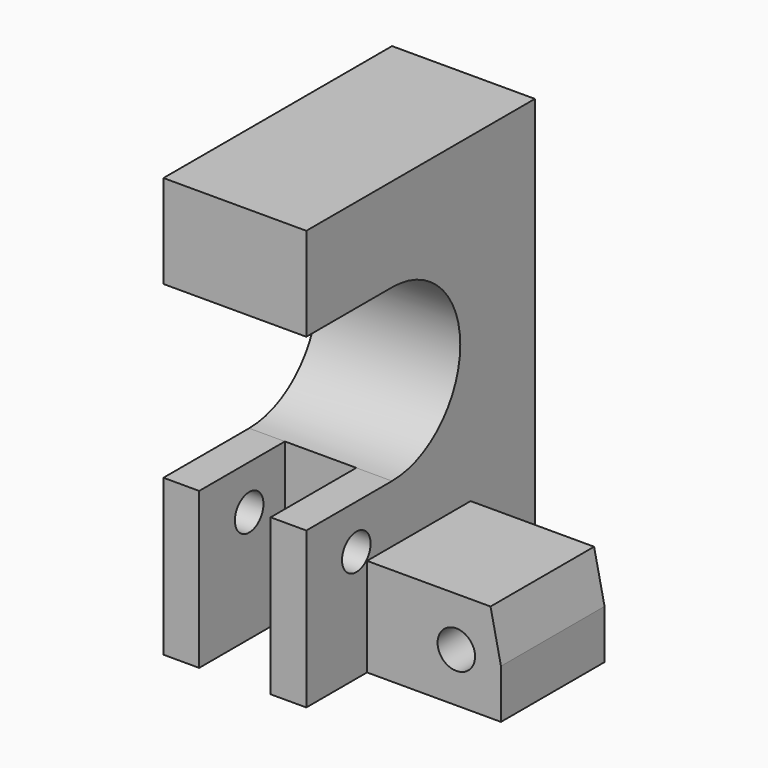
from build123d import *

# Parameters (mm, degrees)
F1_DEPTH  = 16
F2_W      = 14.5
F2_H      = 11
F3_DEPTH  = 15
F5_DEPTH  = 23.501
F7_D      = 4.2
F8_W      = 8
F8_H      = 12
F9_DEPTH  = 17.451
F10_R     = 2
F11_DEPTH = 31.001
F14_D     = 5


with BuildPart() as f1:
    # F0 (on Right) → F1 (new body)
    with BuildSketch(Plane.YZ):
        with BuildLine():
            ThreePointArc((0, 9.55), (9.55, 0), (0, -9.55))
            Line((0, -9.55), (-12, -9.55))
            Line((-12, -9.55), (-12, -27))
            Line((-12, -27), (20, -27))
            Line((20, -27), (20, 20))
            Line((20, 20), (-12, 20))
            Line((-12, 20), (-12, 9.55))
            Line((-12, 9.55), (0, 9.55))
        make_face()
    extrude(amount=F1_DEPTH)

    # F2 (on face) → F3 (join)
    with BuildSketch(Plane.YZ.offset(16)):
        with Locations((3.75, -21.5)):
            Rectangle(F2_W, F2_H)
    extrude(amount=F3_DEPTH)

    # F4 (on face) → F5 (cut, through all)
    with BuildSketch(Plane.XZ.offset(3.5)):
        Polygon((29.8309389108, -16), (31, -21.5), (31, -16), align=None)
    extrude(amount=-F5_DEPTH, mode=Mode.SUBTRACT)

    # F7 (through all)
    with Locations(Plane(origin=(0, 11, 0), x_dir=(-1, 0, 0), z_dir=(0, 1, 0))):
        with Locations((-26, -21.5)):
            Hole(F7_D / 2)

    # F8 (on face) → F9 (cut, through all)
    with BuildSketch(Plane.XY.offset(-9.55)):
        with Locations((8, -6)):
            Rectangle(F8_W, F8_H)
    extrude(amount=-F9_DEPTH, mode=Mode.SUBTRACT)

    # F10 (on face) → F11 (cut, through all)
    with BuildSketch(Plane(origin=(0, 0, 0), x_dir=(0, -1, 0), z_dir=(-1, 0, 0))):
        with Locations((5, -14.5)):
            Circle(F10_R)
    extrude(amount=-F11_DEPTH, mode=Mode.SUBTRACT)

    # F14 (through all)
    with Locations(Plane(origin=(0, 20, 0), x_dir=(-1, 0, 0), z_dir=(0, 1, 0))):
        with Locations((-8, -21)):
            Hole(F14_D / 2)


solid = f1.part
